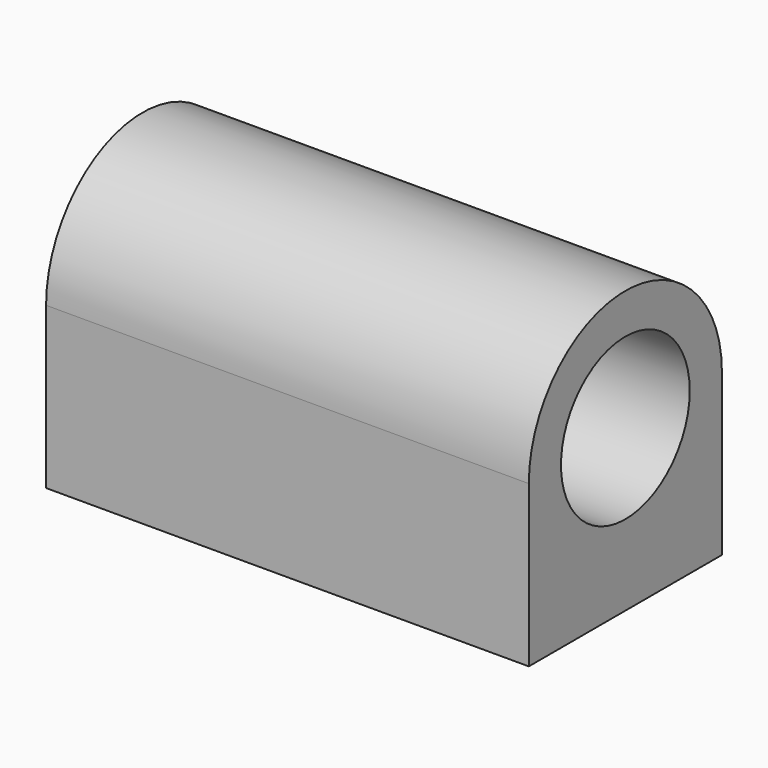
from build123d import *

# Parameters (mm, degrees)
F1_DEPTH = 38.1
F2_R     = 12.7
F3_DEPTH = 254
F4_R     = 1.651
F5_DEPTH = 12.7


with BuildPart() as f1:
    # F0 (on Right) → F1 (new body, symmetric)
    with BuildSketch(Plane.YZ):
        with BuildLine():
            Line((19.05, -25.4), (19.05, 0))
            ThreePointArc((19.05, 0), (0, 19.05), (-19.05, 0))
            Line((-19.05, 0), (-19.05, -25.4))
            Line((-19.05, -25.4), (19.05, -25.4))
        make_face()
    extrude(amount=F1_DEPTH, both=True)

    # F2 (on face) → F3 (cut, symmetric)
    with BuildSketch(Plane.YZ.offset(38.1)):
        Circle(F2_R)
    extrude(amount=F3_DEPTH, both=True, mode=Mode.SUBTRACT)

    # F4 (on face) → F5 (cut)
    with BuildSketch(Plane(origin=(0, 0, -25.4), x_dir=(1, 0, 0), z_dir=(0, 0, -1))):
        with Locations((-31.75, 12.7)):
            Circle(F4_R)
        with Locations((-31.75, -12.7)):
            Circle(F4_R)
        with Locations((31.75, -12.7)):
            Circle(F4_R)
        with Locations((31.75, 12.7)):
            Circle(F4_R)
    extrude(amount=-F5_DEPTH, mode=Mode.SUBTRACT)


solid = f1.part
